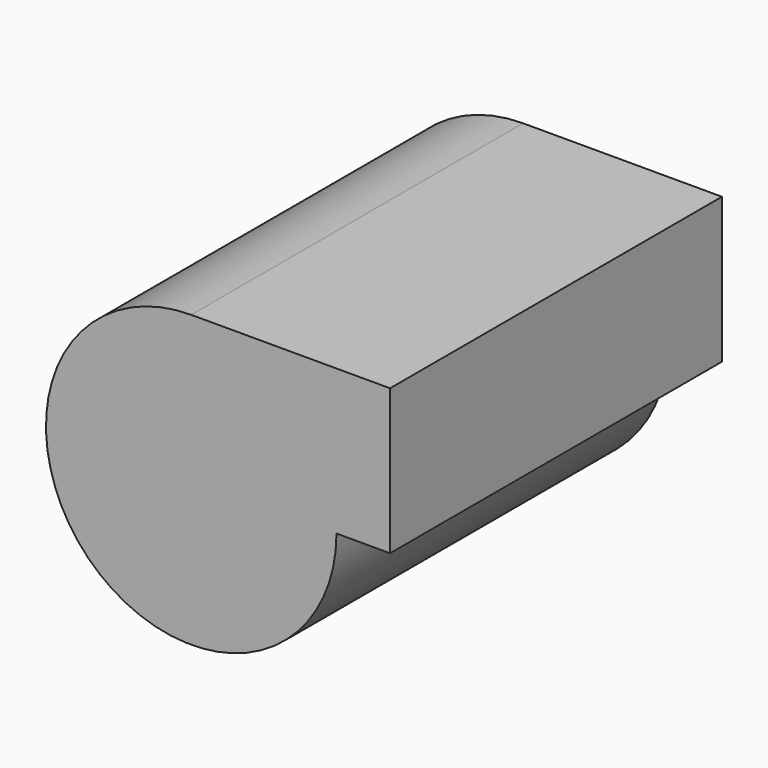
from build123d import *

# Parameters (mm, degrees)
F1_DEPTH = 25.4
F2_DEPTH = 127


with BuildPart() as f1:
    # F0 (on Front) → F1 (new body)
    with BuildSketch(Plane.XZ):
        with BuildLine():
            Line((60.870919, 44.465989), (0, 44.465989))
            ThreePointArc((0, 44.465989), (-31.442202, -31.442202), (44.465989, 0))
            Line((44.465989, 0), (60.870919, 0))
            Line((60.870919, 0), (60.870919, 44.465989))
        make_face()
    extrude(amount=F1_DEPTH)

    # F0 (on Front) → F2 (join)
    with BuildSketch(Plane.XZ):
        with BuildLine():
            Line((60.870919, 44.465989), (0, 44.465989))
            ThreePointArc((0, 44.465989), (-31.442202, -31.442202), (44.465989, 0))
            Line((44.465989, 0), (60.870919, 0))
            Line((60.870919, 0), (60.870919, 44.465989))
        make_face()
    extrude(amount=F2_DEPTH)


solid = f1.part
